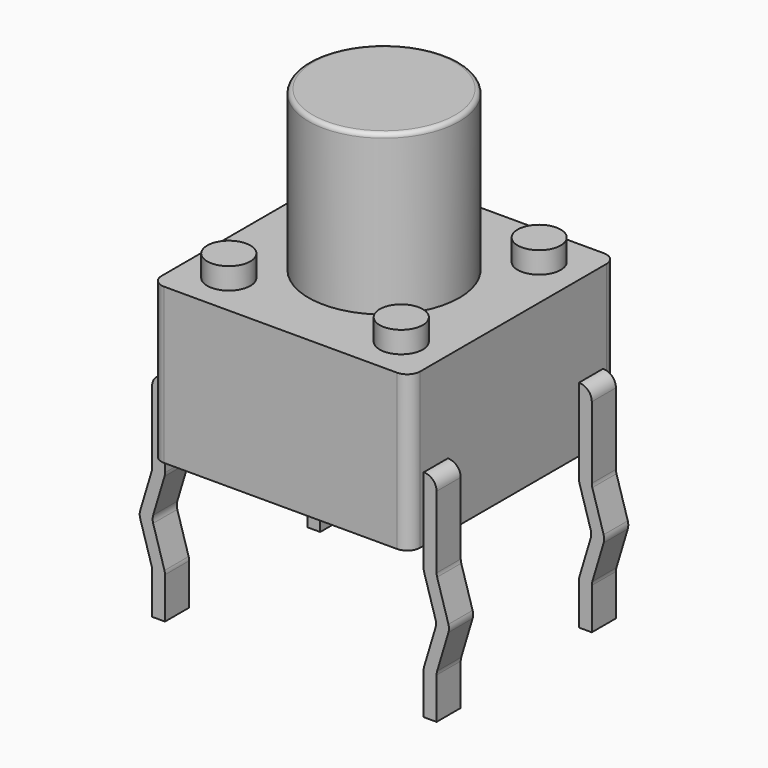
from build123d import *

# Parameters (mm, degrees)
SKETCH001_W  = 6
SKETCH001_H  = 6
PAD001_DEPTH = 0.1
FILLET001_R  = 0.3
PAD008_DEPTH = 0.7
FILLET003_R  = 0.29
PAD009_DEPTH = 0.7
FILLET004_R  = 0.29
PAD010_DEPTH = 0.7
FILLET005_R  = 0.29
SKETCH_W     = 6
SKETCH_H     = 6
PAD_DEPTH    = 3.5
FILLET_R     = 0.3
SKETCH004_R  = 0.5
PAD003_DEPTH = 0.6
SKETCH003_R  = 0.5
PAD004_DEPTH = 0.6
SKETCH005_R  = 0.5
PAD002_DEPTH = 0.6
SKETCH002_R  = 0.5
PAD005_DEPTH = 0.6
SKETCH006_R  = 1.75
PAD006_DEPTH = 3.8
FILLET006_R  = 0.1
PAD007_DEPTH = 0.7
FILLET002_R  = 0.29


with BuildPart() as fillet001:
    # Sketch001 → Pad001 (new body)
    with BuildSketch(Plane.XY.offset(3.5)):
        with Locations((3.15, -2.25)):
            Rectangle(SKETCH001_W, SKETCH001_H)
    extrude(amount=PAD001_DEPTH)

    # Fillet001
    fillet001_edges = [fillet001.edges().sort_by_distance(p)[0] for p in [
        (6.15, -5.25, 3.55),
        (0.15, -5.25, 3.55),
        (6.15, 0.75, 3.55),
        (0.15, 0.75, 3.55),
    ]]
    fillet(fillet001_edges, radius=FILLET001_R)


with BuildPart() as fillet003:
    # Sketch008 → Pad008 (new body)
    with BuildSketch(Plane.XZ.offset(0.35)):
        Polygon((-0.15, 1.5), (0.15, 1.5), (0.15, -0.5), (-0.15, -1.5), (0.15, -2.5), (0.15, -3.5), (-0.15, -3.5), (-0.15, -2.5), (-0.45, -1.5), (-0.15, -0.5), align=None)
    extrude(amount=-PAD008_DEPTH)

    # Fillet003
    fillet003_edges = [fillet003.edges().sort_by_distance(p)[0] for p in [
        (-0.15, 0, -2.5),
        (-0.15, 0, -0.5),
        (-0.45, 0, -1.5),
        (-0.15, 0, 1.5),
        (0.15, 0, -0.5),
        (-0.15, 0, -1.5),
        (0.15, 0, -2.5),
    ]]
    fillet(fillet003_edges, radius=FILLET003_R)


with BuildPart() as fillet004:
    # Sketch009 → Pad009 (new body)
    with BuildSketch(Plane.XZ.offset(4.85)):
        Polygon((6.45, 1.5), (6.15, 1.5), (6.15, -0.5), (6.45, -1.5), (6.15, -2.5), (6.15, -3.5), (6.45, -3.5), (6.45, -2.5), (6.75, -1.5), (6.45, -0.5), align=None)
    extrude(amount=-PAD009_DEPTH)

    # Fillet004
    fillet004_edges = [fillet004.edges().sort_by_distance(p)[0] for p in [
        (6.45, -4.5, -2.5),
        (6.45, -4.5, -0.5),
        (6.75, -4.5, -1.5),
        (6.45, -4.5, 1.5),
        (6.15, -4.5, -0.5),
        (6.45, -4.5, -1.5),
        (6.15, -4.5, -2.5),
    ]]
    fillet(fillet004_edges, radius=FILLET004_R)


with BuildPart() as fillet005:
    # Sketch010 → Pad010 (new body)
    with BuildSketch(Plane.XZ.offset(0.35)):
        Polygon((6.45, 1.5), (6.15, 1.5), (6.15, -0.5), (6.45, -1.5), (6.15, -2.5), (6.15, -3.5), (6.45, -3.5), (6.45, -2.5), (6.75, -1.5), (6.45, -0.5), align=None)
    extrude(amount=-PAD010_DEPTH)

    # Fillet005
    fillet005_edges = [fillet005.edges().sort_by_distance(p)[0] for p in [
        (6.45, 0, -2.5),
        (6.45, 0, -0.5),
        (6.75, 0, -1.5),
        (6.45, 0, 1.5),
        (6.15, 0, -0.5),
        (6.45, 0, -1.5),
        (6.15, 0, -2.5),
    ]]
    fillet(fillet005_edges, radius=FILLET005_R)


with BuildPart() as fillet_body:
    # Sketch → Pad (new body)
    with BuildSketch(Plane.XY):
        with Locations((3.15, -2.25)):
            Rectangle(SKETCH_W, SKETCH_H)
    extrude(amount=PAD_DEPTH)

    # Fillet
    fillet_edges = [fillet_body.edges().sort_by_distance(p)[0] for p in [
        (6.15, 0.75, 1.75),
        (6.15, -5.25, 1.75),
        (0.15, -5.25, 1.75),
        (0.15, 0.75, 1.75),
    ]]
    fillet(fillet_edges, radius=FILLET_R)


with BuildPart() as pad003:
    # Pad003 base: copy of Fillet body
    add(fillet_body.part)

    # Sketch004 → Pad003 (new body)
    with BuildSketch(Plane.XY.offset(3.5)):
        with Locations((5.15, -0.25)):
            Circle(SKETCH004_R)
    extrude(amount=PAD003_DEPTH)


with BuildPart() as pad004:
    # Pad004 base: copy of Fillet body
    add(fillet_body.part)

    # Sketch003 → Pad004 (new body)
    with BuildSketch(Plane.XY.offset(3.5)):
        with Locations((5.15, -4.25)):
            Circle(SKETCH003_R)
    extrude(amount=PAD004_DEPTH)


with BuildPart() as pad002:
    # Pad002 base: copy of Fillet body
    add(fillet_body.part)

    # Sketch005 → Pad002 (new body)
    with BuildSketch(Plane.XY.offset(3.5)):
        with Locations((1.15, -0.25)):
            Circle(SKETCH005_R)
    extrude(amount=PAD002_DEPTH)


with BuildPart() as pad005:
    # Pad005 base: copy of Fillet body
    add(fillet_body.part)

    # Sketch002 → Pad005 (new body)
    with BuildSketch(Plane.XY.offset(3.5)):
        with Locations((1.15, -4.25)):
            Circle(SKETCH002_R)
    extrude(amount=PAD005_DEPTH)


with BuildPart() as fillet006:
    # Pad006 base: copy of Fillet body
    add(fillet_body.part)

    # Sketch006 → Pad006 (new body)
    with BuildSketch(Plane.XY.offset(3.5)):
        with Locations((3.15, -2.25)):
            Circle(SKETCH006_R)
    extrude(amount=PAD006_DEPTH)

    # Fillet006
    fillet006_edges = [fillet006.edges().sort_by_distance(p)[0] for p in [
        (1.4, -2.25, 7.3),
    ]]
    fillet(fillet006_edges, radius=FILLET006_R)


with BuildPart() as obj1:
    # Sketch007 → Pad007 (new body)
    with BuildSketch(Plane.XZ.offset(4.85)):
        Polygon((-0.15, 1.5), (0.15, 1.5), (0.15, -0.5), (-0.15, -1.5), (0.15, -2.5), (0.15, -3.5), (-0.15, -3.5), (-0.15, -2.5), (-0.45, -1.5), (-0.15, -0.5), align=None)
    extrude(amount=-PAD007_DEPTH)

    # Fillet002
    fillet002_edges = [obj1.edges().sort_by_distance(p)[0] for p in [
        (-0.15, -4.5, -2.5),
        (-0.15, -4.5, -0.5),
        (-0.45, -4.5, -1.5),
        (-0.15, -4.5, 1.5),
        (0.15, -4.5, -0.5),
        (-0.15, -4.5, -1.5),
        (0.15, -4.5, -2.5),
    ]]
    fillet(fillet002_edges, radius=FILLET002_R)

    add(fillet001.part)
    add(fillet003.part)
    add(fillet004.part)
    add(fillet005.part)
    add(pad003.part)
    add(pad004.part)
    add(pad002.part)
    add(pad005.part)
    add(fillet006.part)


solid = obj1.part
